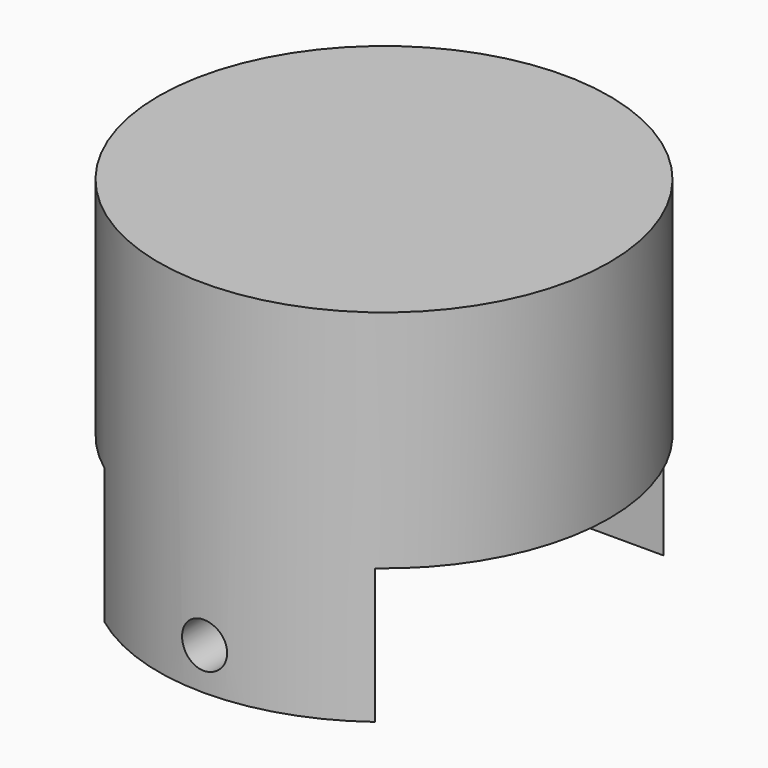
from build123d import *

# Parameters (mm, degrees)
F0_R     = 25
F1_DEPTH = 40
F2_W     = 67.128714
F2_H     = 40
F3_DEPTH = 15
F4_R     = 20
F5_DEPTH = 10
F6_R     = 2.5
F7_DEPTH = 50


with BuildPart() as f1:
    # F0 (on Top) → F1 (new body)
    with BuildSketch(Plane.XY):
        Circle(F0_R)
    extrude(amount=F1_DEPTH)

    # F2 (on face) → F3 (cut)
    with BuildSketch(Plane(origin=(0, 0, 0), x_dir=(1, 0, 0), z_dir=(0, 0, -1))):
        Rectangle(F2_W, F2_H)
    extrude(amount=-F3_DEPTH, mode=Mode.SUBTRACT)

    # F4 (on face) → F5 (cut)
    with BuildSketch(Plane(origin=(0, 0, 15), x_dir=(1, 0, 0), z_dir=(0, 0, -1))):
        Circle(F4_R)
    extrude(amount=-F5_DEPTH, mode=Mode.SUBTRACT)

    # F6 (on Front) → F7 (cut, symmetric)
    with BuildSketch(Plane.XZ):
        with Locations((0, 4.646019)):
            Circle(F6_R)
    extrude(amount=F7_DEPTH, both=True, mode=Mode.SUBTRACT)


solid = f1.part
